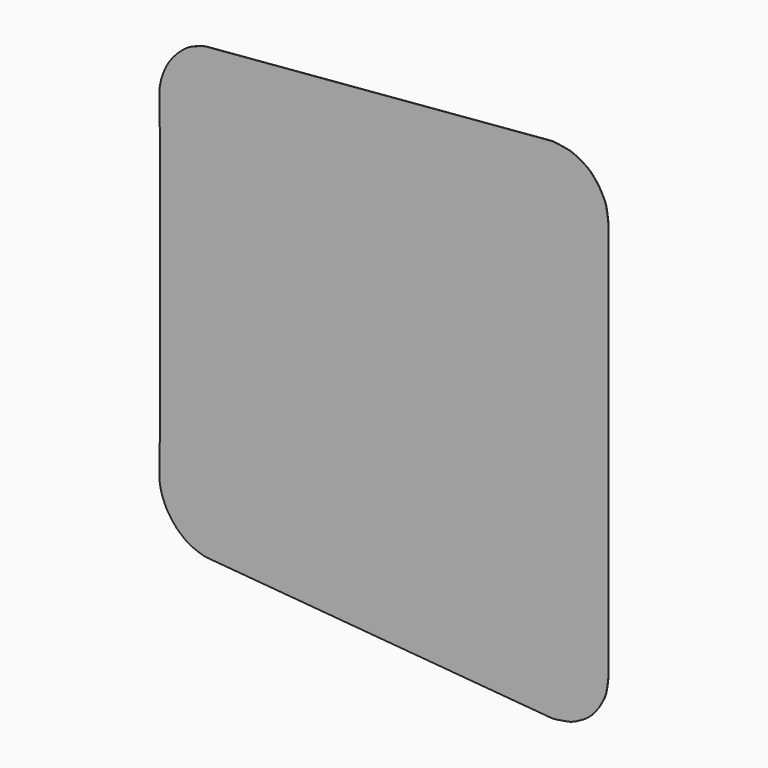
from build123d import *

# Parameters (mm, degrees)
F1_DEPTH = 4


with BuildPart() as f1:
    # F0 (on Front) → F1 (new body)
    with BuildSketch(Plane.XZ):
        Polygon((-3900.4494, 2956.8267), (-3887.8002, 2104.6059), (-3889.5528, 1615.4527), (-3889.5528, 0.0127), (-3889.5528, -1615.4273), (-3887.8002, -2104.5805), (-3900.4494, -2956.8267), (-3888.8162, -3049.7145), (-3869.2582, -3141.3069), (-3839.1592, -3238.0047), (-3800.5512, -3331.6545), (-3755.5424, -3418.3955), (-3688.4102, -3518.5985), (-3596.259, -3627.6915), (-3499.3326, -3714.2293), (-3443.6812, -3758.3999), (-3384.8294, -3797.3635), (-3308.5024, -3833.3299), (-3228.7464, -3862.7177), (-3139.8718, -3891.8515), (-3070.1996, -3905.2119), (-2999.359, -3910.3935), (2924.6322, -4412.2467), (3018.1042, -4402.2899), (3129.9658, -4384.0527), (3189.8082, -4374.3245), (3248.4568, -4360.4053), (3338.8808, -4321.5433), (3442.3096, -4265.2061), (3504.8698, -4226.4965), (3556.889, -4187.9647), (3604.7172, -4144.4799), (3661.5878, -4080.3449), (3733.4444, -3986.9999), (3784.8794, -3897.4903), (3836.3398, -3795.7125), (3860.8508, -3716.5915), (3876.802, -3629.3933), (3891.026, -3528.0981), (3900.4494, -3438.5123), (3900.4494, -2802.1661), (3900.4494, -2320.6583), (3900.4494, 0.0127), (3900.4494, 2320.6837), (3900.4494, 2802.1915), (3900.4494, 3438.5377), (3891.026, 3528.1235), (3876.802, 3629.3933), (3860.8508, 3716.6169), (3836.3398, 3795.7379), (3784.8794, 3897.5157), (3733.4444, 3987.0253), (3661.5878, 4080.3703), (3604.7172, 4144.5053), (3556.889, 4187.9647), (3504.8698, 4226.5219), (3442.3096, 4265.2315), (3338.8808, 4321.5687), (3248.4568, 4360.4053), (3189.8082, 4374.3245), (3129.9658, 4384.0781), (3018.1042, 4402.3153), (2924.6322, 4412.2467), (-2999.359, 3910.3935), (-3070.1996, 3905.2373), (-3139.8718, 3891.8515), (-3228.7464, 3862.7431), (-3308.5024, 3833.3553), (-3384.8294, 3797.3889), (-3443.6812, 3758.4253), (-3499.3326, 3714.2547), (-3596.259, 3627.6915), (-3688.4102, 3518.6239), (-3755.5424, 3418.4209), (-3800.5512, 3331.6799), (-3839.1592, 3238.0301), (-3869.2582, 3141.3323), (-3888.8162, 3049.7145), align=None)
    extrude(amount=F1_DEPTH)


solid = f1.part
